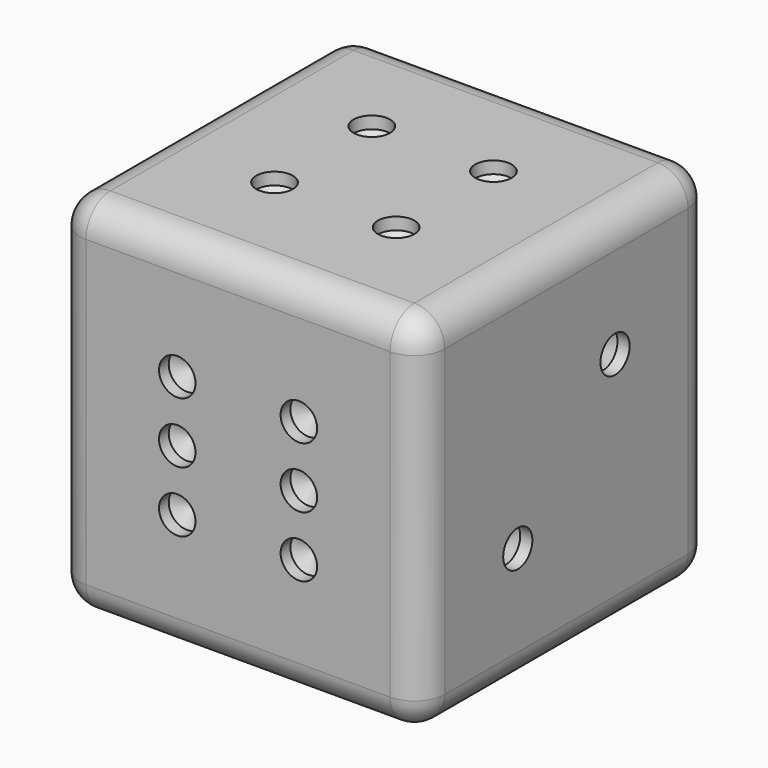
from build123d import *

# Parameters (mm, degrees)
F0_W           = 30
F0_H           = 30
F1_DEPTH       = 30
F2_R           = 2.5
F8_D           = 3
F8_DEPTH       = 1
F8_TIP         = 0.9012909285
F8_ON_F4_D     = 3
F8_ON_F4_DEPTH = 1
F8_ON_F4_TIP   = 0.9012909285
F8_ON_F7_D     = 3
F8_ON_F7_DEPTH = 1
F8_ON_F7_TIP   = 0.9012909285
F8_ON_F6_D     = 3
F8_ON_F6_DEPTH = 1
F8_ON_F6_TIP   = 0.9012909285
F8_ON_F5_D     = 3
F8_ON_F5_DEPTH = 1
F8_ON_F5_TIP   = 0.9012909285


with BuildPart() as f1:
    # F0 (on Front) → F1 (new body)
    with BuildSketch(Plane.XZ):
        Rectangle(F0_W, F0_H)
    extrude(amount=F1_DEPTH)

    # F2
    f2_edges = [f1.edges().sort_by_distance(p)[0] for p in [
        (15, -30, 0),
        (0, -30, 15),
        (-15, -30, 0),
        (0, -30, -15),
        (15, -15, 15),
        (-15, -15, 15),
        (0, 0, 15),
        (15, -15, -15),
        (15, 0, 0),
        (-15, -15, -15),
        (-15, 0, 0),
        (0, 0, -15),
    ]]
    fillet(f2_edges, radius=F2_R)

    # F8
    with Locations(Plane.XZ.offset(30)):
        with Locations((-5, 5), (5, 5), (5, 0), (-5, 0), (-5, -5), (5, -5)):
            Hole(F8_D / 2, depth=F8_DEPTH)
            with Locations((0, 0, -(F8_DEPTH + F8_TIP / 2))):  # 118° drill point
                Cone(0, F8_D / 2, F8_TIP, mode=Mode.SUBTRACT)

    # F8 on F4
    with Locations(Plane.XY.offset(15)):
        with Locations((-5, -20), (-5, -10), (5, -10), (5, -20)):
            Hole(F8_ON_F4_D / 2, depth=F8_ON_F4_DEPTH)
            with Locations((0, 0, -(F8_ON_F4_DEPTH + F8_ON_F4_TIP / 2))):  # 118° drill point
                Cone(0, F8_ON_F4_D / 2, F8_ON_F4_TIP, mode=Mode.SUBTRACT)

    # F8 on F7
    with Locations(Plane.YZ.offset(15)):
        with Locations((-10, 5), (-20, -5)):
            Hole(F8_ON_F7_D / 2, depth=F8_ON_F7_DEPTH)
            with Locations((0, 0, -(F8_ON_F7_DEPTH + F8_ON_F7_TIP / 2))):  # 118° drill point
                Cone(0, F8_ON_F7_D / 2, F8_ON_F7_TIP, mode=Mode.SUBTRACT)

    # F8 on F6
    with Locations(Plane(origin=(-15, 0, 0), x_dir=(0, -1, 0), z_dir=(-1, 0, 0))):
        with Locations((20.8823522035, 5), (15.8823522035, 0), (10.8823522035, -5), (10.8823522035, 5), (20.8823522035, -5)):
            Hole(F8_ON_F6_D / 2, depth=F8_ON_F6_DEPTH)
            with Locations((0, 0, -(F8_ON_F6_DEPTH + F8_ON_F6_TIP / 2))):  # 118° drill point
                Cone(0, F8_ON_F6_D / 2, F8_ON_F6_TIP, mode=Mode.SUBTRACT)

    # F8 on F5
    with Locations(Plane(origin=(0, 0, -15), x_dir=(1, 0, 0), z_dir=(0, 0, -1))):
        with Locations((-5, 10), (0, 15), (5, 20)):
            Hole(F8_ON_F5_D / 2, depth=F8_ON_F5_DEPTH)
            with Locations((0, 0, -(F8_ON_F5_DEPTH + F8_ON_F5_TIP / 2))):  # 118° drill point
                Cone(0, F8_ON_F5_D / 2, F8_ON_F5_TIP, mode=Mode.SUBTRACT)


solid = f1.part
